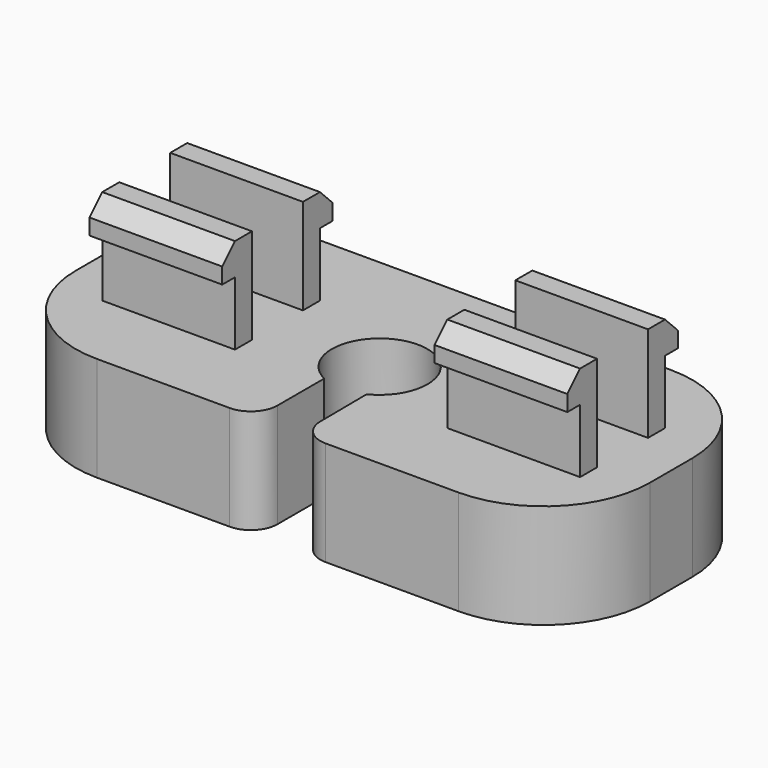
from build123d import *

# Parameters (mm, degrees)
F1_DEPTH = 5
F2_R     = 5.08
F3_R     = 1.27
F4_W     = 6.35
F4_H     = 1.016
F5_DEPTH = 3.048
F6_W     = 6.35
F6_H     = 1.778
F7_DEPTH = 1.524
F8_SIZE  = 0.762


with BuildPart() as f1:
    # F0 (on Top) → F1 (new body)
    with BuildSketch(Plane.XY):
        with BuildLine():
            ThreePointArc((-0.949158, 0), (0.066842, 4.333813), (1.082842, 0))
            Line((1.082842, 0), (1.117634, -4.064))
            Line((1.117634, -4.064), (13.817634, -4.064))
            Line((13.817634, -4.064), (13.817634, 8.636))
            Line((13.817634, 8.636), (-13.649158, 8.636))
            Line((-13.649158, 8.636), (-13.649158, -4.064))
            Line((-13.649158, -4.064), (-0.949158, -4.064))
            Line((-0.949158, -4.064), (-0.949158, 0))
        make_face()
    extrude(amount=F1_DEPTH)

    # F2
    f2_edges = [f1.edges().sort_by_distance(p)[0] for p in [
        (-13.649158, 8.636, 2.5),
        (13.817634, 8.636, 2.5),
        (13.817634, -4.064, 2.5),
        (-13.649158, -4.064, 2.5),
    ]]
    fillet(f2_edges, radius=F2_R)

    # F3
    f3_edges = [f1.edges().sort_by_distance(p)[0] for p in [
        (1.117634, -4.064, 2.5),
        (-0.949158, -4.064, 2.5),
    ]]
    fillet(f3_edges, radius=F3_R)

    # F4 (on face) → F5 (join)
    with BuildSketch(Plane.XY.offset(5)):
        with Locations((-8.188158, 0.254)):
            Rectangle(F4_W, F4_H)
        with Locations((-8.188158, 4.318)):
            Rectangle(F4_W, F4_H)
        with Locations((8.321842, 4.318)):
            Rectangle(F4_W, F4_H)
        with Locations((8.321842, 0.254)):
            Rectangle(F4_W, F4_H)
    extrude(amount=F5_DEPTH)

    # F6 (on face) → F7 (join)
    with BuildSketch(Plane.XY.offset(8.048)):
        with Locations((-8.188158, 4.699)):
            Rectangle(F6_W, F6_H)
        with Locations((-8.188158, -0.127)):
            Rectangle(F6_W, F6_H)
        with Locations((8.321842, 4.699)):
            Rectangle(F6_W, F6_H)
        with Locations((8.321842, -0.127)):
            Rectangle(F6_W, F6_H)
    extrude(amount=F7_DEPTH)

    # F8
    f8_edges = [f1.edges().sort_by_distance(p)[0] for p in [
        (-8.188158, -1.016, 9.572),
        (-8.188158, 5.588, 9.572),
        (8.321842, 5.588, 9.572),
        (8.321842, -1.016, 9.572),
    ]]
    chamfer(f8_edges, length=F8_SIZE)


solid = f1.part
